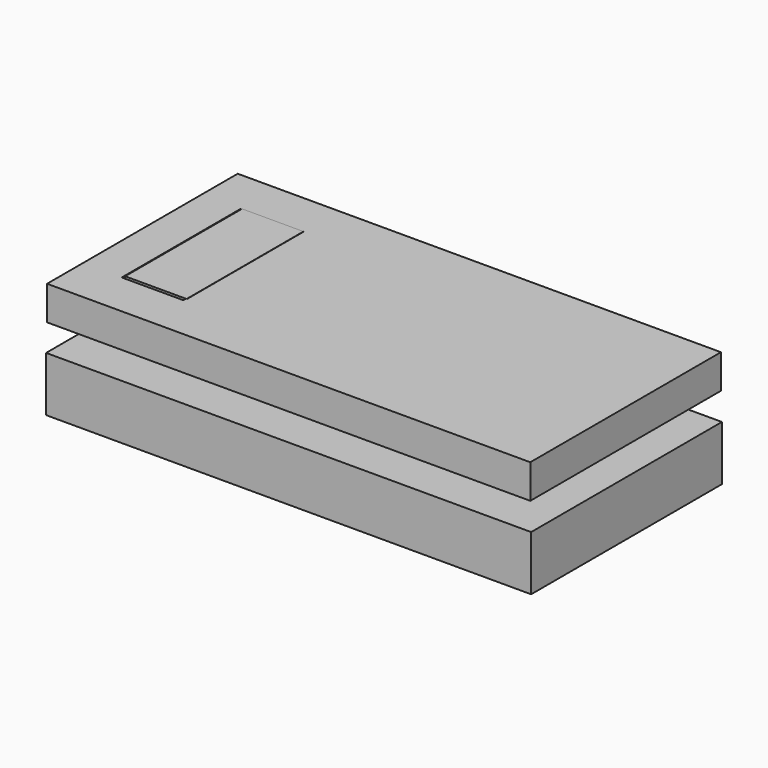
from build123d import *

# Parameters (mm, degrees)
F0_W           = 162.7134084702
F0_H           = 18.3784328401
F1_DEPTH       = 40
F1_DEPTH_BACK  = 40
F2_W           = 20.7726098597
F2_H           = 20.496037323
F3_DEPTH       = 25
F3_DEPTH_BACK  = 25
F4_R           = 4.5425898753
F5_DEPTH       = 25
F5_DEPTH_BACK  = 25
F6_W           = 12.4435722828
F6_H           = 37.5084653497
F7_DEPTH       = 25
F7_DEPTH_BACK  = 25
F9_W           = 162.0947122574
F9_H           = 79.9454376101
F9_W_2         = 20.6207633018
F9_H_2         = 49.9520339072
F10_DEPTH      = 11.4
F11_W          = 20.6207707524
F11_H          = 33.9531623758
F11_R          = 4.9583436457
F12_DEPTH      = 24
F12_DEPTH_BACK = 25


with BuildPart() as f1:
    # F0 (on Front) → F1 (new body, two sides)
    with BuildSketch(Plane.XZ) as f1_sk:
        Rectangle(F0_W, F0_H)
    extrude(amount=F1_DEPTH)
    extrude(f1_sk.sketch, amount=-F1_DEPTH_BACK)

    # F2 (on Front) → F3 (cut, two sides)
    with BuildSketch(Plane.XZ) as f3_sk:
        with Locations((-57.9359661788, 6.4746418502)):
            Rectangle(F2_W, F2_H)
    extrude(amount=-F3_DEPTH, mode=Mode.SUBTRACT)
    extrude(f3_sk.sketch, amount=F3_DEPTH_BACK, mode=Mode.SUBTRACT)

    # F4 (on Front) → F5 (join, two sides)
    with BuildSketch(Plane.XZ) as f5_sk:
        with Locations((-59.6402399242, 1.6887697857)):
            Circle(F4_R)
    extrude(amount=F5_DEPTH)
    extrude(f5_sk.sketch, amount=-F5_DEPTH_BACK)

    # F6 (on Top) → F7 (cut, two sides)
    with BuildSketch(Plane.XY) as f7_sk:
        with Locations((-60.3513009846, 0)):
            Rectangle(F6_W, F6_H)
    extrude(amount=-F7_DEPTH, mode=Mode.SUBTRACT)
    extrude(f7_sk.sketch, amount=F7_DEPTH_BACK, mode=Mode.SUBTRACT)


with BuildPart() as f10:
    # F9 (on offset) → F10 (new body)
    with BuildSketch(Plane.XY.offset(18.3)):
        Rectangle(F9_W, F9_H)
        with Locations((-57.6848201454, 0)):
            Rectangle(F9_W_2, F9_H_2, mode=Mode.SUBTRACT)
    extrude(amount=F10_DEPTH)

    # F11 (on Front) → F12 (join, two sides)
    with BuildSketch(Plane.XZ) as f12_sk:
        with Locations((-57.3292933404, 12.7990979236)):
            Rectangle(F11_W, F11_H)
        with Locations((-58.0403506756, 6.3106664456)):
            Circle(F11_R, mode=Mode.SUBTRACT)
    extrude(amount=F12_DEPTH)
    extrude(f12_sk.sketch, amount=-F12_DEPTH_BACK)


solid = Compound([f1.part, f10.part])
